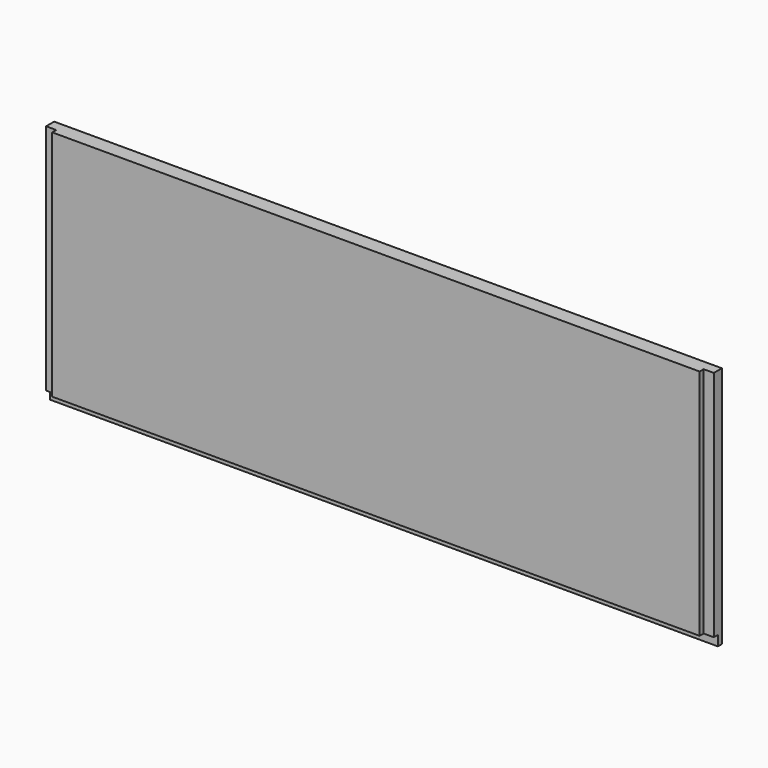
from build123d import *

# Parameters (mm, degrees)
F0_W     = 838.2
F0_H     = 304.8
F1_DEPTH = 19.05
F2_W     = 12.7
F2_H     = 12.7
F3_DEPTH = 838.201
F4_W     = 12.7
F4_H     = 6.35
F5_DEPTH = 304.801


with BuildPart() as f1:
    # F0 (on Front) → F1 (new body)
    with BuildSketch(Plane.XZ):
        with Locations((419.1, 152.4)):
            Rectangle(F0_W, F0_H)
    extrude(amount=F1_DEPTH)

    # F2 (on face) → F3 (cut, through all)
    with BuildSketch(Plane.YZ.offset(838.2)):
        with Locations((-12.7, 6.35)):
            Rectangle(F2_W, F2_H)
    extrude(amount=-F3_DEPTH, mode=Mode.SUBTRACT)

    # F4 (on face) → F5 (cut, through all)
    with BuildSketch(Plane.XY.offset(304.8)):
        with Locations((831.85, -15.875)):
            Rectangle(F4_W, F4_H)
        with Locations((6.35, -15.875)):
            Rectangle(F4_W, F4_H)
    extrude(amount=-F5_DEPTH, mode=Mode.SUBTRACT)


solid = f1.part
